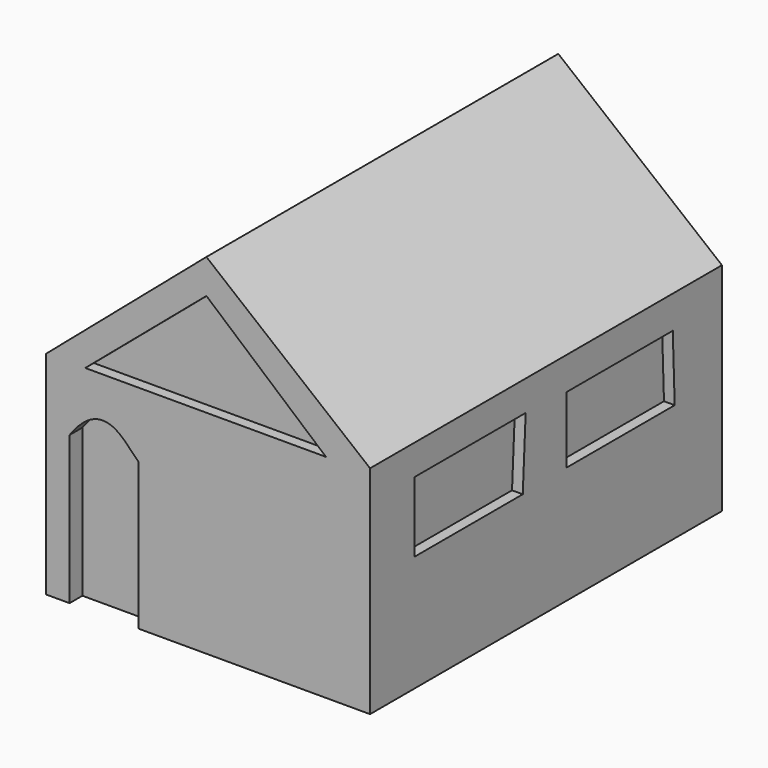
from build123d import *

# Parameters (mm, degrees)
PAD_DEPTH            = 82
POCKET_DEPTH         = 3
POCKET001_DEPTH      = 2
POCKET002_DEPTH      = 2
SKETCH007_W          = 17.883893
SKETCH007_H          = 27.618155
POCKET003_DEPTH      = 1
SKETCH009_W          = 19.921296
SKETCH009_H          = 43.238262
POCKET004_DEPTH      = 4
BODY_PLACEMENT_ANGLE = 90


with BuildPart() as part:
    # Sketch → Pad (new body)
    with BuildSketch(Plane.XY):
        Polygon((30.506308, 10.196762), (-29.890312, 10.196762), (-29.890312, 49.718979), (0, 75.324928), (30.506308, 50.553959), align=None)
    extrude(amount=PAD_DEPTH)

    # Sketch001 (on Face7 of Pad) → Pocket (cut)
    with BuildSketch(Plane.XY.offset(82)):
        with BuildLine():
            Line((-25.5156, 10.058528), (-25.5156, 37.7992))
            add(Edge.make_bspline(
                [(-25.5156, 37.7992), (-20.1793, 45.2511), (-12.6602, 37.5736), (-12.6602, 37.5736), (-12.6602, 37.5736)],
                knots=[0, 0, 0, 0, 0.5, 1, 1, 1, 1], degree=3))
            Line((-12.6602, 37.5736), (-12.6602, 10.058528))
            Line((-12.6602, 10.058528), (-25.5156, 10.058528))
        make_face()
    extrude(amount=-POCKET_DEPTH, mode=Mode.SUBTRACT)

    # Sketch002 (on Face4 of Pocket) → Pocket001 (cut)
    with BuildSketch(Plane.XY.offset(82)):
        Polygon((0, 68.922791), (-22.583693, 49.75243), (22.297503, 49.75243), align=None)
    extrude(amount=-POCKET001_DEPTH, mode=Mode.SUBTRACT)

    # Sketch003 (on Face8 of Pocket001) → Pocket002 (cut)
    with BuildSketch(Plane.YZ.offset(30.506308)):
        Polygon((31.822407, 71.672646), (31.822407, 46.41288), (44.903366, 45.736275), (44.903366, 71.672646), align=None)
        Polygon((32.047943, 36.263863), (44.45229, 36.263863), (44.45229, 11.455163), (32.047943, 11.004096), align=None)
    extrude(amount=-POCKET002_DEPTH, mode=Mode.SUBTRACT)

    # Sketch007 (on Face9 of Pocket002) → Pocket003 (cut)
    with BuildSketch(Plane(origin=(-37.216188, 43.443166, 0), x_dir=(-0.759436, -0.650582, 0), z_dir=(-0.650582, 0.759436, 0))):
        with Locations((-37.439836, 21.282723)):
            Rectangle(SKETCH007_W, SKETCH007_H)
    extrude(amount=-POCKET003_DEPTH, mode=Mode.SUBTRACT)

    # Sketch009 (on Face3 of Pocket003) → Pocket004 (cut)
    with BuildSketch(Plane(origin=(-29.890312, 0, 0), x_dir=(0, -1, 0), z_dir=(-1, 0, 0))):
        with Locations((-37.215107, 41.792734)):
            Rectangle(SKETCH009_W, SKETCH009_H)
    extrude(amount=-POCKET004_DEPTH, mode=Mode.SUBTRACT)


with BuildPart() as part_1:
    # Body placement: moved
    add(part.part.rotate(Axis((0, 0, 0), (1, 0, 0)), BODY_PLACEMENT_ANGLE))


solid = part_1.part
